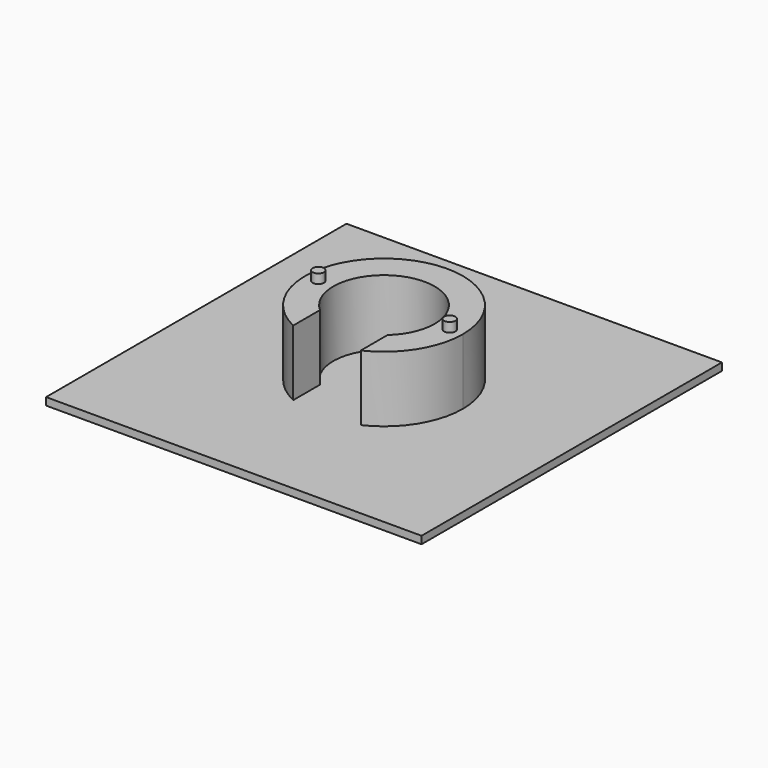
from build123d import *

# Parameters (mm, degrees)
F0_R     = 1.5
F1_DEPTH = 17.5
F2_DEPTH = 20
F0_W     = 100
F0_H     = 100
F3_DEPTH = 2


with BuildPart() as f1:
    # F0 (on Top) → F1 (new body)
    with BuildSketch(Plane.XY):
        with BuildLine():
            ThreePointArc((-9, -10.0623058987), (-5.5113519213, 12.3237575439), (13.5, 0))
            ThreePointArc((13.5, 0), (12.3237575439, -5.5113519213), (9, -10.0623058987))
            Line((9, -10.0623058987), (9, -18.973665961))
            ThreePointArc((9, -18.973665961), (17.7482393493, -11.2249721603), (21, 0))
            ThreePointArc((21, 0), (-11.2249721603, 17.7482393493), (-9, -18.973665961))
            Line((-9, -18.973665961), (-9, -10.0623058987))
        make_face()
        with Locations((-17.5, 0)):
            Circle(F0_R, mode=Mode.SUBTRACT)
        with Locations((17.5, 0)):
            Circle(F0_R, mode=Mode.SUBTRACT)
    extrude(amount=F1_DEPTH)

    # F0 (on Top) → F2 (join)
    with BuildSketch(Plane.XY):
        with Locations((-17.5, 0)):
            Circle(F0_R)
        with Locations((17.5, 0)):
            Circle(F0_R)
    extrude(amount=F2_DEPTH)


with BuildPart() as f3:
    # F0 (on Top) → F3 (new body)
    with BuildSketch(Plane.XY):
        Rectangle(F0_W, F0_H)
        with BuildLine():
            Line((-9, -21.471963264), (-9, -18.973665961))
            ThreePointArc((-9, -18.973665961), (-11.2249721603, 17.7482393493), (21, 0))
            ThreePointArc((21, 0), (17.7482393493, -11.2249721603), (9, -18.973665961))
            Line((9, -18.973665961), (9, -21.471963264))
            Line((9, -21.471963264), (-9, -21.471963264))
        make_face(mode=Mode.SUBTRACT)
        with BuildLine():
            ThreePointArc((-9, -10.0623058987), (-5.5113519213, 12.3237575439), (13.5, 0))
            ThreePointArc((13.5, 0), (12.3237575439, -5.5113519213), (9, -10.0623058987))
            Line((9, -10.0623058987), (9, -18.973665961))
            ThreePointArc((9, -18.973665961), (17.7482393493, -11.2249721603), (21, 0))
            ThreePointArc((21, 0), (-11.2249721603, 17.7482393493), (-9, -18.973665961))
            Line((-9, -18.973665961), (-9, -10.0623058987))
        make_face()
        with Locations((-17.5, 0)):
            Circle(F0_R, mode=Mode.SUBTRACT)
        with Locations((17.5, 0)):
            Circle(F0_R, mode=Mode.SUBTRACT)
        with Locations((-17.5, 0)):
            Circle(F0_R)
        with Locations((17.5, 0)):
            Circle(F0_R)
        with BuildLine():
            ThreePointArc((9, -10.0623058987), (0, -13.5), (-9, -10.0623058987))
            Line((-9, -10.0623058987), (-9, -18.973665961))
            ThreePointArc((-9, -18.973665961), (0, -21), (9, -18.973665961))
            Line((9, -18.973665961), (9, -10.0623058987))
        make_face()
        with BuildLine():
            ThreePointArc((9, -18.973665961), (0, -21), (-9, -18.973665961))
            Line((-9, -18.973665961), (-9, -21.471963264))
            Line((-9, -21.471963264), (9, -21.471963264))
            Line((9, -21.471963264), (9, -18.973665961))
        make_face()
        with BuildLine():
            ThreePointArc((9, -10.0623058987), (12.3237575439, -5.5113519213), (13.5, 0))
            ThreePointArc((13.5, 0), (-5.5113519213, 12.3237575439), (-9, -10.0623058987))
            Line((-9, -10.0623058987), (-9, -8.9602405205))
            Line((-9, -8.9602405205), (9, -8.9602405205))
            Line((9, -8.9602405205), (9, -10.0623058987))
        make_face()
        with BuildLine():
            Line((-9, -8.9602405205), (-9, -10.0623058987))
            ThreePointArc((-9, -10.0623058987), (0, -13.5), (9, -10.0623058987))
            Line((9, -10.0623058987), (9, -8.9602405205))
            Line((9, -8.9602405205), (-9, -8.9602405205))
        make_face()
    extrude(amount=-F3_DEPTH)


solid = Compound([f1.part, f3.part])
